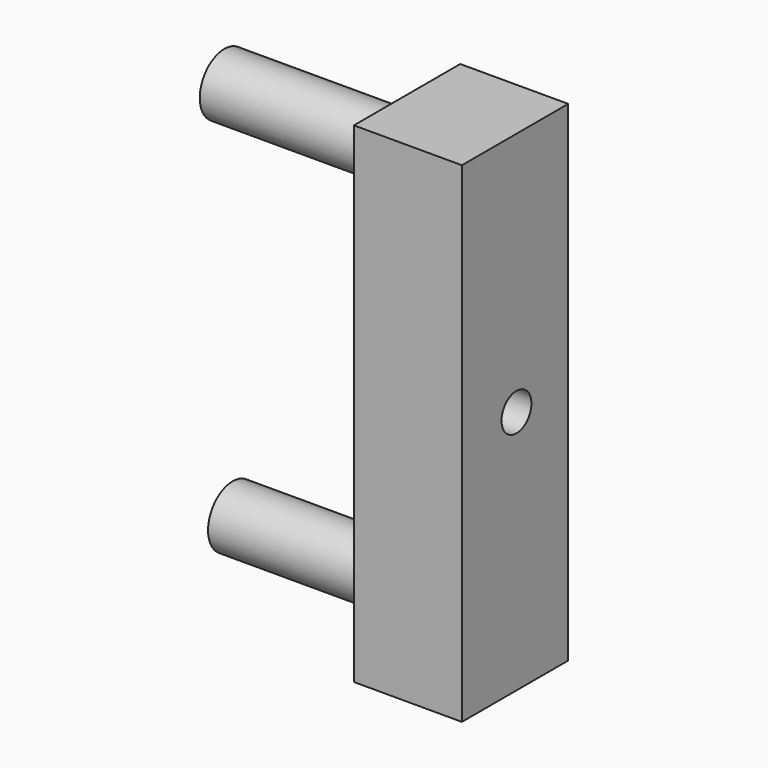
from build123d import *

# Parameters (mm, degrees)
F1_DEPTH = 16
F2_R     = 3.7
F3_DEPTH = 22
F4_DEPTH = 21
F6_D     = 4.5


with BuildPart() as f1:
    # F0 (on Front) → F1 (new body)
    with BuildSketch(Plane.XZ):
        Polygon((0.202192, 32.007239), (-12.797808, 32.007239), (-12.797808, 19.507239), (-12.797808, -8.492761), (-12.797808, -26.992761), (0.202192, -26.992761), align=None)
    extrude(amount=F1_DEPTH)

    # F2 (on face) → F3 (join)
    with BuildSketch(Plane(origin=(-12.797808, 0, 0), x_dir=(0, -1, 0), z_dir=(-1, 0, 0))):
        with Locations((7.996093, 26.00724)):
            Circle(F2_R)
    extrude(amount=F3_DEPTH)

    # F2 (on face) → F4 (join)
    with BuildSketch(Plane(origin=(-12.797808, 0, 0), x_dir=(0, -1, 0), z_dir=(-1, 0, 0))):
        with Locations((8, -19.492761)):
            Circle(F2_R)
    extrude(amount=F4_DEPTH)

    # F6 (through all)
    with Locations(Plane.YZ.offset(0.202192)):
        with Locations((-7.788272, 2.507239)):
            Hole(F6_D / 2)


solid = f1.part
